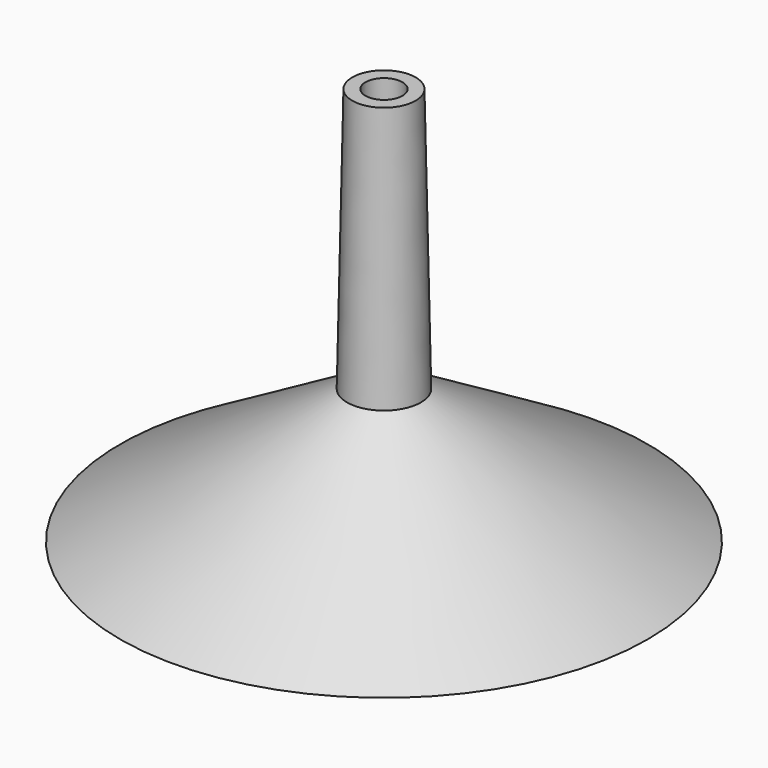
from build123d import *


with BuildPart() as f1:
    # F0 (on Front) → F1 (revolve)
    with BuildSketch(Plane.XZ):
        Polygon((-3.4995, 75.504701), (-6, 75.504701), (-7, 25.514702), (-50, 0), (-45.100864, 0), (-4.528313, 24.074338), align=None)
        Polygon((7, 25.514702), (6, 75.504701), (3.4995, 75.504701), (4.528313, 24.074338), (45.100864, 0), (50, 0), align=None)
    revolve(axis=Axis((0, 0, 37.75235), (0, 0, 1)))


solid = f1.part
